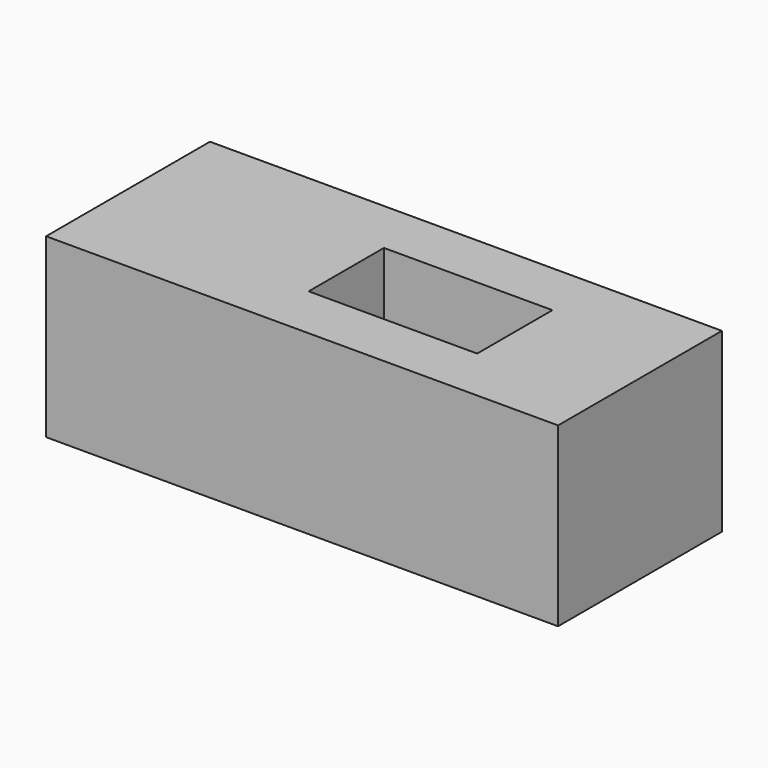
from build123d import *

# Parameters (mm, degrees)
F0_W     = 55
F0_H     = 19
F1_DEPTH = 11
F2_W     = 18.1
F2_H     = 10.1
F3_DEPTH = 11
F5_DEPTH = 4.5
F7_DEPTH = 4.5
F8_W     = 15.25
F8_H     = 3.25
F9_DEPTH = 52


with BuildPart() as f1:
    # F0 (on Front) → F1 (new body, symmetric)
    with BuildSketch(Plane.XZ):
        Rectangle(F0_W, F0_H)
    extrude(amount=F1_DEPTH, both=True)

    # F2 (on Top) → F3 (cut, symmetric)
    with BuildSketch(Plane.XY):
        with Locations((5, 0)):
            Rectangle(F2_W, F2_H)
    extrude(amount=F3_DEPTH, both=True, mode=Mode.SUBTRACT)

    # F4 (on face) → F5 (cut)
    with BuildSketch(Plane.XZ.offset(-5.05)):
        with BuildLine():
            Line((10.4, 1), (-0.4, 1))
            ThreePointArc((-0.4, 1), (-1.4, 0), (-0.4, -1))
            Line((-0.4, -1), (10.4, -1))
            ThreePointArc((10.4, -1), (11.4, 0), (10.4, 1))
        make_face()
    extrude(amount=-F5_DEPTH, mode=Mode.SUBTRACT)

    # F6 (on face) → F7 (cut)
    with BuildSketch(Plane(origin=(0, -5.05, 0), x_dir=(-1, 0, 0), z_dir=(0, 1, 0))):
        with BuildLine():
            ThreePointArc((-10.4, 1), (-11.4, 0), (-10.4, -1))
            Line((-10.4, -1), (0.4, -1))
            ThreePointArc((0.4, -1), (1.4, 0), (0.4, 1))
            Line((0.4, 1), (-10.4, 1))
        make_face()
    extrude(amount=-F7_DEPTH, mode=Mode.SUBTRACT)

    # F8 (on face) → F9 (cut)
    with BuildSketch(Plane(origin=(-27.5, 0, 0), x_dir=(0, -1, 0), z_dir=(-1, 0, 0))):
        Rectangle(F8_W, F8_H)
    extrude(amount=-F9_DEPTH, mode=Mode.SUBTRACT)


solid = f1.part
